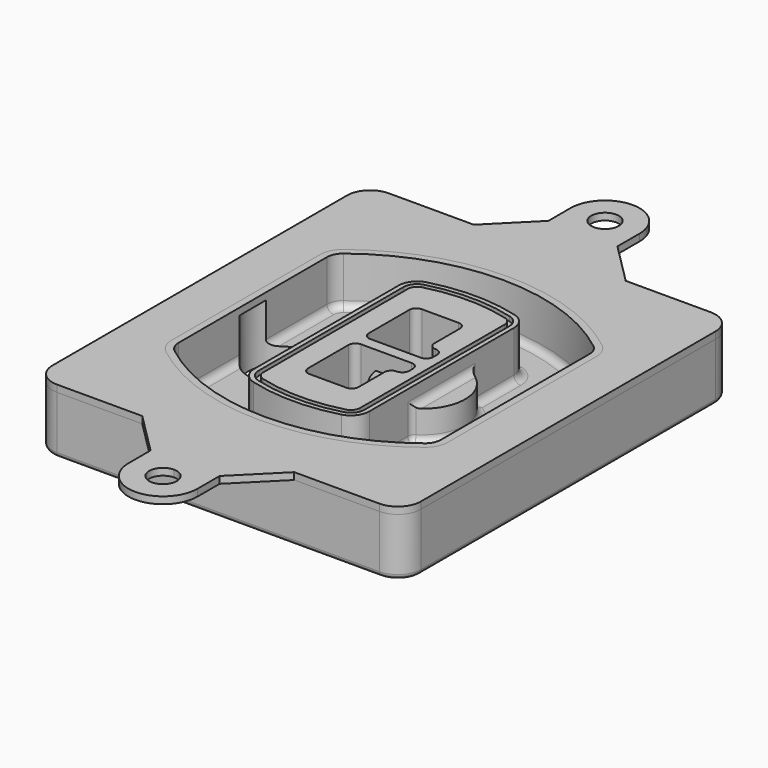
from build123d import *

# Parameters (mm, degrees)
F0_R      = 4
F1_DEPTH  = 25
F2_DEPTH  = 3
F3_DEPTH  = 18
F5_DEPTH  = 21
F6_DEPTH  = 2
F8_DEPTH  = 20
F9_DEPTH  = 16
F10_DEPTH = 25
F7_R      = 6
F7_R_2    = 4
F11_DEPTH = 6
F13_DEPTH = 9
F14_R     = 3
F15_R     = 2
F17_DEPTH = 3


with BuildPart() as f1:
    # F0 (on Top) → F1 (new body)
    with BuildSketch(Plane.XY):
        with BuildLine():
            ThreePointArc((-80, -80), (-77.0710678119, -87.0710678119), (-70, -90))
            Line((-70, -90), (70, -90))
            ThreePointArc((70, -90), (77.0710678119, -87.0710678119), (80, -80))
            Line((80, -80), (80, 80))
            ThreePointArc((80, 80), (77.0710678119, 87.0710678119), (70, 90))
            Line((70, 90), (-70, 90))
            ThreePointArc((-70, 90), (-77.0710678119, 87.0710678119), (-80, 80))
            Line((-80, 80), (-80, -80))
        make_face()
        with Locations((-60, -67.5)):
            Circle(F0_R, mode=Mode.SUBTRACT)
        with Locations((60, -67.5)):
            Circle(F0_R, mode=Mode.SUBTRACT)
        with Locations((-60, 67.5)):
            Circle(F0_R, mode=Mode.SUBTRACT)
        with BuildLine():
            ThreePointArc((-64, 40.2934422872), (-62.5820384798, 46.4328484224), (-58.6153846154, 51.3286200352))
            ThreePointArc((-58.6153846154, 51.3286200352), (0, 71.5), (58.6153846154, 51.3286200352))
            ThreePointArc((58.6153846154, 51.3286200352), (62.5820384798, 46.4328484224), (64, 40.2934422872))
            Line((64, 40.2934422872), (64, -40.2934422872))
            ThreePointArc((64, -40.2934422872), (62.5820384798, -46.4328484224), (58.6153846154, -51.3286200352))
            ThreePointArc((58.6153846154, -51.3286200352), (0, -71.5), (-58.6153846154, -51.3286200352))
            ThreePointArc((-58.6153846154, -51.3286200352), (-62.5820384798, -46.4328484224), (-64, -40.2934422872))
            Line((-64, -40.2934422872), (-64, 40.2934422872))
        make_face(mode=Mode.SUBTRACT)
        with Locations((60, 67.5)):
            Circle(F0_R, mode=Mode.SUBTRACT)
        with BuildLine():
            ThreePointArc((58.6153846154, 51.3286200352), (0, 71.5), (-58.6153846154, 51.3286200352))
            ThreePointArc((-58.6153846154, 51.3286200352), (-62.5820384798, 46.4328484224), (-64, 40.2934422872))
            Line((-64, 40.2934422872), (-64, -40.2934422872))
            ThreePointArc((-64, -40.2934422872), (-62.5820384798, -46.4328484224), (-58.6153846154, -51.3286200352))
            ThreePointArc((-58.6153846154, -51.3286200352), (0, -71.5), (58.6153846154, -51.3286200352))
            ThreePointArc((58.6153846154, -51.3286200352), (62.5820384798, -46.4328484224), (64, -40.2934422872))
            Line((64, -40.2934422872), (64, 40.2934422872))
            ThreePointArc((64, 40.2934422872), (62.5820384798, 46.4328484224), (58.6153846154, 51.3286200352))
        make_face()
        with BuildLine():
            Line((-60, -40.2934422872), (-60, 40.2934422872))
            ThreePointArc((-60, 40.2934422872), (-58.9871703427, 44.6787323838), (-56.1538461538, 48.1757121072))
            ThreePointArc((-56.1538461538, 48.1757121072), (0, 67.5), (56.1538461538, 48.1757121072))
            ThreePointArc((56.1538461538, 48.1757121072), (58.9871703427, 44.6787323838), (60, 40.2934422872))
            Line((60, 40.2934422872), (60, -40.2934422872))
            ThreePointArc((60, -40.2934422872), (58.9871703427, -44.6787323838), (56.1538461538, -48.1757121072))
            ThreePointArc((56.1538461538, -48.1757121072), (0, -67.5), (-56.1538461538, -48.1757121072))
            ThreePointArc((-56.1538461538, -48.1757121072), (-58.9871703427, -44.6787323838), (-60, -40.2934422872))
        make_face(mode=Mode.SUBTRACT)
        with BuildLine():
            ThreePointArc((-56.1538461538, 48.1757121072), (-58.9871703427, 44.6787323838), (-60, 40.2934422872))
            Line((-60, 40.2934422872), (-60, -40.2934422872))
            ThreePointArc((-60, -40.2934422872), (-58.9871703427, -44.6787323838), (-56.1538461538, -48.1757121072))
            ThreePointArc((-56.1538461538, -48.1757121072), (0, -67.5), (56.1538461538, -48.1757121072))
            ThreePointArc((56.1538461538, -48.1757121072), (58.9871703427, -44.6787323838), (60, -40.2934422872))
            Line((60, -40.2934422872), (60, 40.2934422872))
            ThreePointArc((60, 40.2934422872), (58.9871703427, 44.6787323838), (56.1538461538, 48.1757121072))
            ThreePointArc((56.1538461538, 48.1757121072), (0, 67.5), (-56.1538461538, 48.1757121072))
        make_face()
        with BuildLine():
            ThreePointArc((54.3076923077, 45.8110311612), (56.2910192399, 43.3631453548), (57, 40.2934422872))
            Line((57, 40.2934422872), (57, -40.2934422872))
            ThreePointArc((57, -40.2934422872), (56.2910192399, -43.3631453548), (54.3076923077, -45.8110311612))
            ThreePointArc((54.3076923077, -45.8110311612), (0, -64.5), (-54.3076923077, -45.8110311612))
            ThreePointArc((-54.3076923077, -45.8110311612), (-56.2910192399, -43.3631453548), (-57, -40.2934422872))
            Line((-57, -40.2934422872), (-57, 40.2934422872))
            ThreePointArc((-57, 40.2934422872), (-56.2910192399, 43.3631453548), (-54.3076923077, 45.8110311612))
            ThreePointArc((-54.3076923077, 45.8110311612), (0, 64.5), (54.3076923077, 45.8110311612))
        make_face(mode=Mode.SUBTRACT)
        with BuildLine():
            Line((57, -40.2934422872), (57, 40.2934422872))
            ThreePointArc((57, 40.2934422872), (56.2910192399, 43.3631453548), (54.3076923077, 45.8110311612))
            ThreePointArc((54.3076923077, 45.8110311612), (0, 64.5), (-54.3076923077, 45.8110311612))
            ThreePointArc((-54.3076923077, 45.8110311612), (-56.2910192399, 43.3631453548), (-57, 40.2934422872))
            Line((-57, 40.2934422872), (-57, -40.2934422872))
            ThreePointArc((-57, -40.2934422872), (-56.2910192399, -43.3631453548), (-54.3076923077, -45.8110311612))
            ThreePointArc((-54.3076923077, -45.8110311612), (0, -64.5), (54.3076923077, -45.8110311612))
            ThreePointArc((54.3076923077, -45.8110311612), (56.2910192399, -43.3631453548), (57, -40.2934422872))
        make_face()
    extrude(amount=-F1_DEPTH)

    # F0 (on Top) → F2 (join)
    with BuildSketch(Plane.XY):
        with BuildLine():
            ThreePointArc((-56.1538461538, 48.1757121072), (-58.9871703427, 44.6787323838), (-60, 40.2934422872))
            Line((-60, 40.2934422872), (-60, -40.2934422872))
            ThreePointArc((-60, -40.2934422872), (-58.9871703427, -44.6787323838), (-56.1538461538, -48.1757121072))
            ThreePointArc((-56.1538461538, -48.1757121072), (0, -67.5), (56.1538461538, -48.1757121072))
            ThreePointArc((56.1538461538, -48.1757121072), (58.9871703427, -44.6787323838), (60, -40.2934422872))
            Line((60, -40.2934422872), (60, 40.2934422872))
            ThreePointArc((60, 40.2934422872), (58.9871703427, 44.6787323838), (56.1538461538, 48.1757121072))
            ThreePointArc((56.1538461538, 48.1757121072), (0, 67.5), (-56.1538461538, 48.1757121072))
        make_face()
        with BuildLine():
            ThreePointArc((54.3076923077, 45.8110311612), (56.2910192399, 43.3631453548), (57, 40.2934422872))
            Line((57, 40.2934422872), (57, -40.2934422872))
            ThreePointArc((57, -40.2934422872), (56.2910192399, -43.3631453548), (54.3076923077, -45.8110311612))
            ThreePointArc((54.3076923077, -45.8110311612), (0, -64.5), (-54.3076923077, -45.8110311612))
            ThreePointArc((-54.3076923077, -45.8110311612), (-56.2910192399, -43.3631453548), (-57, -40.2934422872))
            Line((-57, -40.2934422872), (-57, 40.2934422872))
            ThreePointArc((-57, 40.2934422872), (-56.2910192399, 43.3631453548), (-54.3076923077, 45.8110311612))
            ThreePointArc((-54.3076923077, 45.8110311612), (0, 64.5), (54.3076923077, 45.8110311612))
        make_face(mode=Mode.SUBTRACT)
    extrude(amount=F2_DEPTH)

    # F0 (on Top) → F3 (cut)
    with BuildSketch(Plane.XY):
        with BuildLine():
            Line((57, -40.2934422872), (57, 40.2934422872))
            ThreePointArc((57, 40.2934422872), (56.2910192399, 43.3631453548), (54.3076923077, 45.8110311612))
            ThreePointArc((54.3076923077, 45.8110311612), (0, 64.5), (-54.3076923077, 45.8110311612))
            ThreePointArc((-54.3076923077, 45.8110311612), (-56.2910192399, 43.3631453548), (-57, 40.2934422872))
            Line((-57, 40.2934422872), (-57, -40.2934422872))
            ThreePointArc((-57, -40.2934422872), (-56.2910192399, -43.3631453548), (-54.3076923077, -45.8110311612))
            ThreePointArc((-54.3076923077, -45.8110311612), (0, -64.5), (54.3076923077, -45.8110311612))
            ThreePointArc((54.3076923077, -45.8110311612), (56.2910192399, -43.3631453548), (57, -40.2934422872))
        make_face()
    extrude(amount=-F3_DEPTH, mode=Mode.SUBTRACT)

    # F4 (on face) → F5 (join, through all)
    with BuildSketch(Plane.XY.offset(3)):
        with BuildLine():
            ThreePointArc((-25, -39.2465276821), (-23.3511545998, -44.1109737193), (-19.0842911877, -46.9702398883))
            ThreePointArc((-19.0842911877, -46.9702398883), (0, -49.5), (19.0842911877, -46.9702398883))
            ThreePointArc((19.0842911877, -46.9702398883), (23.3511545998, -44.1109737193), (25, -39.2465276821))
            Line((25, -39.2465276821), (25, 39.2465276821))
            ThreePointArc((25, 39.2465276821), (23.3511545998, 44.1109737193), (19.0842911877, 46.9702398883))
            ThreePointArc((19.0842911877, 46.9702398883), (0, 49.5), (-19.0842911877, 46.9702398883))
            ThreePointArc((-19.0842911877, 46.9702398883), (-23.3511545998, 44.1109737193), (-25, 39.2465276821))
            Line((-25, 39.2465276821), (-25, -39.2465276821))
        make_face()
        with BuildLine():
            ThreePointArc((18.5632183908, 45.0393118368), (21.7633659499, 42.89486221), (23, 39.2465276821))
            Line((23, 39.2465276821), (23, -39.2465276821))
            ThreePointArc((23, -39.2465276821), (21.7633659499, -42.89486221), (18.5632183908, -45.0393118368))
            ThreePointArc((18.5632183908, -45.0393118368), (0, -47.5), (-18.5632183908, -45.0393118368))
            ThreePointArc((-18.5632183908, -45.0393118368), (-21.7633659499, -42.89486221), (-23, -39.2465276821))
            Line((-23, -39.2465276821), (-23, 39.2465276821))
            ThreePointArc((-23, 39.2465276821), (-21.7633659499, 42.89486221), (-18.5632183908, 45.0393118368))
            ThreePointArc((-18.5632183908, 45.0393118368), (0, 47.5), (18.5632183908, 45.0393118368))
        make_face(mode=Mode.SUBTRACT)
        with BuildLine():
            Line((23, -39.2465276821), (23, 39.2465276821))
            ThreePointArc((23, 39.2465276821), (21.7633659499, 42.89486221), (18.5632183908, 45.0393118368))
            ThreePointArc((18.5632183908, 45.0393118368), (0, 47.5), (-18.5632183908, 45.0393118368))
            ThreePointArc((-18.5632183908, 45.0393118368), (-21.7633659499, 42.89486221), (-23, 39.2465276821))
            Line((-23, 39.2465276821), (-23, -39.2465276821))
            ThreePointArc((-23, -39.2465276821), (-21.7633659499, -42.89486221), (-18.5632183908, -45.0393118368))
            ThreePointArc((-18.5632183908, -45.0393118368), (0, -47.5), (18.5632183908, -45.0393118368))
            ThreePointArc((18.5632183908, -45.0393118368), (21.7633659499, -42.89486221), (23, -39.2465276821))
        make_face()
        with BuildLine():
            ThreePointArc((18.0421455939, 43.1083837852), (20.1755772999, 41.6787507007), (21, 39.2465276821))
            Line((21, 39.2465276821), (21, -39.2465276821))
            ThreePointArc((21, -39.2465276821), (20.1755772999, -41.6787507007), (18.0421455939, -43.1083837852))
            ThreePointArc((18.0421455939, -43.1083837852), (0, -45.5), (-18.0421455939, -43.1083837852))
            ThreePointArc((-18.0421455939, -43.1083837852), (-20.1755772999, -41.6787507007), (-21, -39.2465276821))
            Line((-21, -39.2465276821), (-21, 39.2465276821))
            ThreePointArc((-21, 39.2465276821), (-20.1755772999, 41.6787507007), (-18.0421455939, 43.1083837852))
            ThreePointArc((-18.0421455939, 43.1083837852), (0, 45.5), (18.0421455939, 43.1083837852))
        make_face(mode=Mode.SUBTRACT)
        with BuildLine():
            Line((21, -39.2465276821), (21, 39.2465276821))
            ThreePointArc((21, 39.2465276821), (20.1755772999, 41.6787507007), (18.0421455939, 43.1083837852))
            ThreePointArc((18.0421455939, 43.1083837852), (0, 45.5), (-18.0421455939, 43.1083837852))
            ThreePointArc((-18.0421455939, 43.1083837852), (-20.1755772999, 41.6787507007), (-21, 39.2465276821))
            Line((-21, 39.2465276821), (-21, -39.2465276821))
            ThreePointArc((-21, -39.2465276821), (-20.1755772999, -41.6787507007), (-18.0421455939, -43.1083837852))
            ThreePointArc((-18.0421455939, -43.1083837852), (0, -45.5), (18.0421455939, -43.1083837852))
            ThreePointArc((18.0421455939, -43.1083837852), (20.1755772999, -41.6787507007), (21, -39.2465276821))
        make_face()
        with BuildLine():
            Line((-8, -2.5), (14, -2.5))
            ThreePointArc((14, -2.5), (16.1213203436, -3.3786796564), (17, -5.5))
            Line((17, -5.5), (17, -7.5))
            ThreePointArc((17, -7.5), (16.1213203436, -9.6213203436), (14, -10.5))
            ThreePointArc((14, -10.5), (11.8786796564, -11.3786796564), (11, -13.5))
            Line((11, -13.5), (11, -27.5))
            ThreePointArc((11, -27.5), (10.1213203436, -29.6213203436), (8, -30.5))
            Line((8, -30.5), (-8, -30.5))
            ThreePointArc((-8, -30.5), (-10.1213203436, -29.6213203436), (-11, -27.5))
            Line((-11, -27.5), (-11, -5.5))
            ThreePointArc((-11, -5.5), (-10.1213203436, -3.3786796564), (-8, -2.5))
        make_face(mode=Mode.SUBTRACT)
        with BuildLine():
            ThreePointArc((-8, 2.5), (-10.1213203436, 3.3786796564), (-11, 5.5))
            Line((-11, 5.5), (-11, 27.5))
            ThreePointArc((-11, 27.5), (-10.1213203436, 29.6213203436), (-8, 30.5))
            Line((-8, 30.5), (8, 30.5))
            ThreePointArc((8, 30.5), (10.1213203436, 29.6213203436), (11, 27.5))
            Line((11, 27.5), (11, 13.5))
            ThreePointArc((11, 13.5), (11.8786796564, 11.3786796564), (14, 10.5))
            ThreePointArc((14, 10.5), (16.1213203436, 9.6213203436), (17, 7.5))
            Line((17, 7.5), (17, 5.5))
            ThreePointArc((17, 5.5), (16.1213203436, 3.3786796564), (14, 2.5))
            Line((14, 2.5), (-8, 2.5))
        make_face(mode=Mode.SUBTRACT)
    extrude(amount=-F5_DEPTH)

    # F4 (on face) → F6 (cut)
    with BuildSketch(Plane.XY.offset(3)):
        with BuildLine():
            Line((23, -39.2465276821), (23, 39.2465276821))
            ThreePointArc((23, 39.2465276821), (21.7633659499, 42.89486221), (18.5632183908, 45.0393118368))
            ThreePointArc((18.5632183908, 45.0393118368), (0, 47.5), (-18.5632183908, 45.0393118368))
            ThreePointArc((-18.5632183908, 45.0393118368), (-21.7633659499, 42.89486221), (-23, 39.2465276821))
            Line((-23, 39.2465276821), (-23, -39.2465276821))
            ThreePointArc((-23, -39.2465276821), (-21.7633659499, -42.89486221), (-18.5632183908, -45.0393118368))
            ThreePointArc((-18.5632183908, -45.0393118368), (0, -47.5), (18.5632183908, -45.0393118368))
            ThreePointArc((18.5632183908, -45.0393118368), (21.7633659499, -42.89486221), (23, -39.2465276821))
        make_face()
        with BuildLine():
            ThreePointArc((18.0421455939, 43.1083837852), (20.1755772999, 41.6787507007), (21, 39.2465276821))
            Line((21, 39.2465276821), (21, -39.2465276821))
            ThreePointArc((21, -39.2465276821), (20.1755772999, -41.6787507007), (18.0421455939, -43.1083837852))
            ThreePointArc((18.0421455939, -43.1083837852), (0, -45.5), (-18.0421455939, -43.1083837852))
            ThreePointArc((-18.0421455939, -43.1083837852), (-20.1755772999, -41.6787507007), (-21, -39.2465276821))
            Line((-21, -39.2465276821), (-21, 39.2465276821))
            ThreePointArc((-21, 39.2465276821), (-20.1755772999, 41.6787507007), (-18.0421455939, 43.1083837852))
            ThreePointArc((-18.0421455939, 43.1083837852), (0, 45.5), (18.0421455939, 43.1083837852))
        make_face(mode=Mode.SUBTRACT)
    extrude(amount=-F6_DEPTH, mode=Mode.SUBTRACT)

    # F7 (on face) → F8 (join)
    with BuildSketch(Plane(origin=(0, 0, -25), x_dir=(1, 0, 0), z_dir=(0, 0, -1))):
        with BuildLine():
            ThreePointArc((3.28842436, 0), (16.7567035675, 13.4682792075), (30.224982775, 0))
            Line((30.224982775, 0), (35.224982775, 0))
            ThreePointArc((35.224982775, 0), (16.7567035675, 18.4682792075), (-1.71157564, 0))
            Line((-1.71157564, 0), (3.28842436, 0))
        make_face()
        with BuildLine():
            Line((3.28842436, 0), (30.224982775, 0))
            ThreePointArc((30.224982775, 0), (16.7567035675, 13.4682792075), (3.28842436, 0))
        make_face()
        with BuildLine():
            ThreePointArc((3.28842436, 0), (16.7567035675, -13.4682792075), (30.224982775, 0))
            Line((30.224982775, 0), (3.28842436, 0))
        make_face()
        with BuildLine():
            Line((35.224982775, 0), (30.224982775, 0))
            ThreePointArc((30.224982775, 0), (16.7567035675, -13.4682792075), (3.28842436, 0))
            Line((3.28842436, 0), (-1.71157564, 0))
            ThreePointArc((-1.71157564, 0), (16.7567035675, -18.4682792075), (35.224982775, 0))
        make_face()
    extrude(amount=-F8_DEPTH)

    # F7 (on face) → F9 (cut)
    with BuildSketch(Plane(origin=(0, 0, -25), x_dir=(1, 0, 0), z_dir=(0, 0, -1))):
        with BuildLine():
            Line((3.28842436, 0), (30.224982775, 0))
            ThreePointArc((30.224982775, 0), (16.7567035675, 13.4682792075), (3.28842436, 0))
        make_face()
        with BuildLine():
            ThreePointArc((3.28842436, 0), (16.7567035675, -13.4682792075), (30.224982775, 0))
            Line((30.224982775, 0), (3.28842436, 0))
        make_face()
    extrude(amount=-F9_DEPTH, mode=Mode.SUBTRACT)

    # F7 (on face) → F10 (cut)
    with BuildSketch(Plane(origin=(0, 0, -25), x_dir=(1, 0, 0), z_dir=(0, 0, -1))):
        with BuildLine():
            Line((-59.0318229325, 0), (-32.0952645175, 0))
            ThreePointArc((-32.0952645175, 0), (-45.563543725, 13.4682792075), (-59.0318229325, 0))
        make_face()
        with BuildLine():
            ThreePointArc((-59.0318229325, 0), (-45.563543725, -13.4682792075), (-32.0952645175, 0))
            Line((-32.0952645175, 0), (-59.0318229325, 0))
        make_face()
    extrude(amount=-F10_DEPTH, mode=Mode.SUBTRACT)

    # F7 (on face) → F11 (cut)
    with BuildSketch(Plane(origin=(0, 0, -25), x_dir=(1, 0, 0), z_dir=(0, 0, -1))):
        with Locations((60, -67.5)):
            Circle(F7_R)
        with Locations((60, -67.5)):
            Circle(F7_R_2, mode=Mode.SUBTRACT)
        with Locations((60, -67.5)):
            Circle(F7_R)
        with Locations((60, -67.5)):
            Circle(F7_R_2, mode=Mode.SUBTRACT)
        with Locations((-60, -67.5)):
            Circle(F7_R)
        with Locations((-60, -67.5)):
            Circle(F7_R_2, mode=Mode.SUBTRACT)
        with Locations((-60, -67.5)):
            Circle(F7_R)
        with Locations((-60, -67.5)):
            Circle(F7_R_2, mode=Mode.SUBTRACT)
        with Locations((-60, 67.5)):
            Circle(F7_R)
        with Locations((-60, 67.5)):
            Circle(F7_R_2, mode=Mode.SUBTRACT)
        with Locations((-60, 67.5)):
            Circle(F7_R)
        with Locations((-60, 67.5)):
            Circle(F7_R_2, mode=Mode.SUBTRACT)
        with Locations((60, 67.5)):
            Circle(F7_R)
        with Locations((60, 67.5)):
            Circle(F7_R_2, mode=Mode.SUBTRACT)
        with Locations((60, 67.5)):
            Circle(F7_R)
        with Locations((60, 67.5)):
            Circle(F7_R_2, mode=Mode.SUBTRACT)
    extrude(amount=-F11_DEPTH, mode=Mode.SUBTRACT)

    # F12 (on face) → F13 (cut, through all)
    with BuildSketch(Plane(origin=(0, 0, -9), x_dir=(1, 0, 0), z_dir=(0, 0, -1))):
        with BuildLine():
            Line((11, 13.5), (11, 17.5481537753))
            ThreePointArc((11, 17.5481537753), (2.5696536419, 11.8239143813), (-1.5415842455, 2.5))
            Line((-1.5415842455, 2.5), (3.5224848595, 2.5))
            ThreePointArc((3.5224848595, 2.5), (6.1857188154, 8.3455872281), (11.2536447004, 12.2927168648))
            ThreePointArc((11.2536447004, 12.2927168648), (11.0640958889, 12.8831798879), (11, 13.5))
        make_face()
        with BuildLine():
            ThreePointArc((11.2536447004, -12.2927168648), (6.1857188154, -8.3455872281), (3.5224848595, -2.5))
            Line((3.5224848595, -2.5), (-1.5415842455, -2.5))
            ThreePointArc((-1.5415842455, -2.5), (2.5696536419, -11.8239143813), (11, -17.5481537753))
            Line((11, -17.5481537753), (11, -13.5))
            ThreePointArc((11, -13.5), (11.0640958889, -12.8831798879), (11.2536447004, -12.2927168648))
        make_face()
        with BuildLine():
            ThreePointArc((11.2536447004, 12.2927168648), (6.1857188154, 8.3455872281), (3.5224848595, 2.5))
            Line((3.5224848595, 2.5), (14, 2.5))
            ThreePointArc((14, 2.5), (16.1213203436, 3.3786796564), (17, 5.5))
            Line((17, 5.5), (17, 7.5))
            ThreePointArc((17, 7.5), (16.1213203436, 9.6213203436), (14, 10.5))
            ThreePointArc((14, 10.5), (12.3601599782, 10.9878446101), (11.2536447004, 12.2927168648))
        make_face()
        with BuildLine():
            Line((14, -2.5), (3.5224848595, -2.5))
            ThreePointArc((3.5224848595, -2.5), (6.1857188154, -8.3455872281), (11.2536447004, -12.2927168648))
            ThreePointArc((11.2536447004, -12.2927168648), (12.3601599782, -10.9878446101), (14, -10.5))
            ThreePointArc((14, -10.5), (16.1213203436, -9.6213203436), (17, -7.5))
            Line((17, -7.5), (17, -5.5))
            ThreePointArc((17, -5.5), (16.1213203436, -3.3786796564), (14, -2.5))
        make_face()
    extrude(amount=F13_DEPTH, mode=Mode.SUBTRACT)

    # F14
    f14_edges = [f1.edges().sort_by_distance(p)[0] for p in [
        (-57, -23.703476, -18),
        (-57, 23.703476, -18),
        (25, 0, -5),
        (25, 16.526506, -11.5),
        (25, -16.526506, -11.5),
        (25, -27.886517, -18),
        (35.224983, 0, -18),
    ]]
    fillet(f14_edges, radius=F14_R)

    # F15
    f15_edges = [f1.edges().sort_by_distance(p)[0] for p in [
        (0, -90, -25),
    ]]
    fillet(f15_edges, radius=F15_R)


with BuildPart() as f17:
    # F16 (on face) → F17 (new body, through all)
    with BuildSketch(Plane.XY):
        with BuildLine():
            Line((-33, 90), (-70, 90))
            ThreePointArc((-70, 90), (-77.0710678119, 87.0710678119), (-80, 80))
            Line((-80, 80), (-80, 0))
            Line((-80, 0), (-60, 0))
            Line((-60, 0), (-60, 40.2934422872))
            ThreePointArc((-60, 40.2934422872), (-58.9871703427, 44.6787323838), (-56.1538461538, 48.1757121072))
            ThreePointArc((-56.1538461538, 48.1757121072), (0, 67.5), (56.1538461538, 48.1757121072))
            ThreePointArc((56.1538461538, 48.1757121072), (58.9871703427, 44.6787323838), (60, 40.2934422872))
            Line((60, 40.2934422872), (60, 0))
            Line((60, 0), (80, 0))
            Line((80, 0), (80, 80))
            ThreePointArc((80, 80), (77.0710678119, 87.0710678119), (70, 90))
            Line((70, 90), (33, 90))
            Line((33, 90), (0, 90))
            Line((0, 90), (-33, 90))
        make_face()
        with BuildLine():
            Line((-15, 108), (-33, 90))
            Line((-33, 90), (0, 90))
            Line((0, 90), (33, 90))
            Line((33, 90), (15, 108))
            Line((15, 108), (15, 120))
            ThreePointArc((15, 120), (0, 135), (-15, 120))
            Line((-15, 120), (-15, 108))
        make_face()
        with BuildLine():
            ThreePointArc((6, 120), (4.2426406871, 115.7573593129), (0, 114))
            ThreePointArc((0, 114), (-4.2426406871, 124.2426406871), (6, 120))
        make_face(mode=Mode.SUBTRACT)
        with BuildLine():
            Line((-60, 0), (-80, 0))
            Line((-80, 0), (-80, -80))
            ThreePointArc((-80, -80), (-77.0710678119, -87.0710678119), (-70, -90))
            Line((-70, -90), (-33, -90))
            Line((-33, -90), (0, -90))
            Line((0, -90), (33, -90))
            Line((33, -90), (70, -90))
            ThreePointArc((70, -90), (77.0710678119, -87.0710678119), (80, -80))
            Line((80, -80), (80, 0))
            Line((80, 0), (60, 0))
            Line((60, 0), (60, -40.2934422872))
            ThreePointArc((60, -40.2934422872), (58.9871703427, -44.6787323838), (56.1538461538, -48.1757121072))
            ThreePointArc((56.1538461538, -48.1757121072), (0, -67.5), (-56.1538461538, -48.1757121072))
            ThreePointArc((-56.1538461538, -48.1757121072), (-58.9871703427, -44.6787323838), (-60, -40.2934422872))
            Line((-60, -40.2934422872), (-60, 0))
        make_face()
        with BuildLine():
            Line((0, -90), (-33, -90))
            Line((-33, -90), (-15, -108))
            Line((-15, -108), (-15, -120))
            ThreePointArc((-15, -120), (0, -135), (15, -120))
            Line((15, -120), (15, -108))
            Line((15, -108), (33, -90))
            Line((33, -90), (0, -90))
        make_face()
        with BuildLine():
            ThreePointArc((6, -120), (-4.2426406871, -124.2426406871), (0, -114))
            ThreePointArc((0, -114), (4.2426406871, -115.7573593129), (6, -120))
        make_face(mode=Mode.SUBTRACT)
    extrude(amount=F17_DEPTH)


solid = Compound([f1.part, f17.part])
